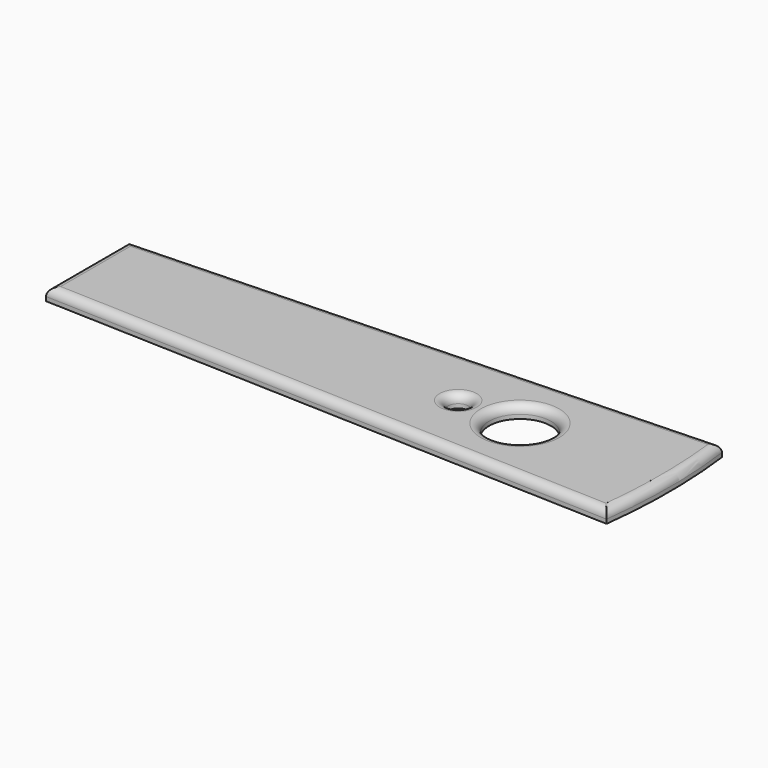
from build123d import *

# Parameters (mm, degrees)
F0_R     = 2.5
F0_R_2   = 7.5
F1_DEPTH = 3
F2_R     = 2


with BuildPart() as f1:
    # F0 (on Top) → F1 (new body)
    with BuildSketch(Plane.XY):
        with BuildLine():
            Line((70, 17.5), (-70, 12.5))
            Line((-70, 12.5), (-70, -12.5))
            Line((-70, -12.5), (70, -17.5))
            ThreePointArc((70, -17.5), (71.089511, 0), (70, 17.5))
        make_face()
        with Locations((20, 0)):
            Circle(F0_R, mode=Mode.SUBTRACT)
        with Locations((35, 0)):
            Circle(F0_R_2, mode=Mode.SUBTRACT)
    extrude(amount=F1_DEPTH)

    # F2
    f2_edges = [f1.edges().sort_by_distance(p)[0] for p in [
        (0, 15, 3),
        (-70, 0, 3),
        (0, -15, 3),
        (71.089511, 0, 3),
        (17.5, 0, 3),
        (27.5, 0, 3),
    ]]
    fillet(f2_edges, radius=F2_R)


solid = f1.part
